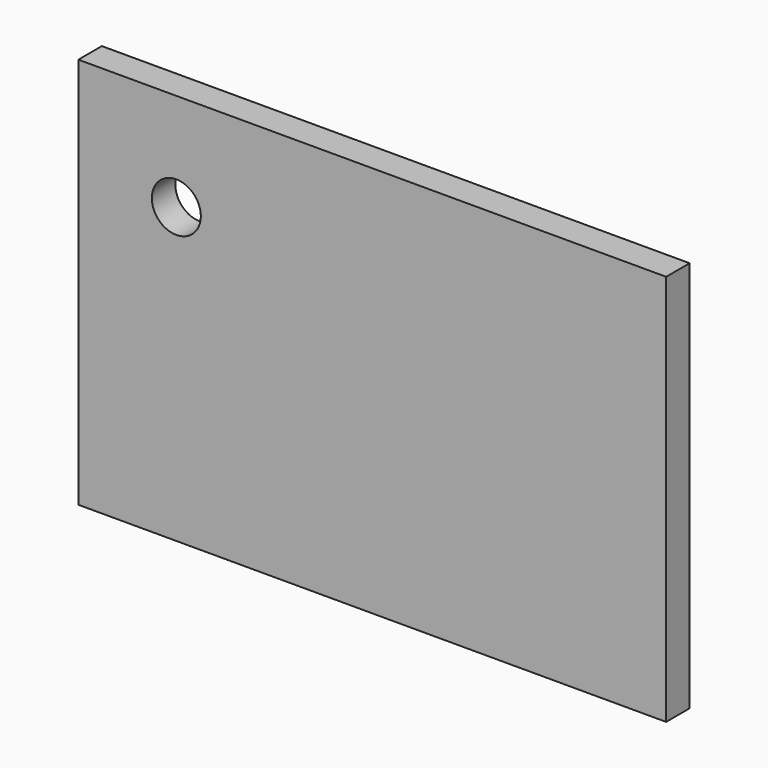
from build123d import *

# Parameters (mm, degrees)
F0_W     = 60
F0_H     = 3
F1_DEPTH = 40
F3_D     = 5


with BuildPart() as f1:
    # F0 (on Top) → F1 (new body)
    with BuildSketch(Plane.XY):
        with Locations((30, 1.5)):
            Rectangle(F0_W, F0_H)
    extrude(amount=F1_DEPTH)

    # F3 (through all)
    with Locations(Plane.XZ):
        with Locations((10, 30)):
            Hole(F3_D / 2)


with BuildPart() as f4_1:
    # F4: copy of F1
    add(f1.part)


solid = Compound([f1.part, f4_1.part])
